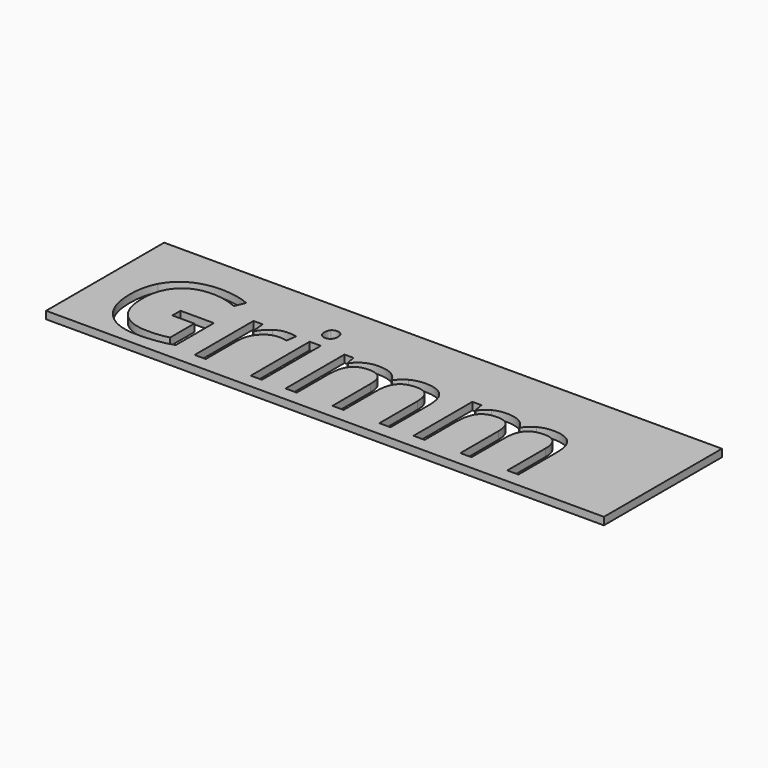
from build123d import *

# Parameters (mm, degrees)
F0_W     = 148.2064500451
F0_H     = 39.1995310783
F0_W_2   = 2.9635276284
F0_H_2   = 19.5569983185
F1_DEPTH = 2


with BuildPart() as f1:
    # F0 (on Top) → F1 (new body)
    with BuildSketch(Plane.XY):
        with Locations((1.0739602149, 4.8328191042)):
            Rectangle(F0_W, F0_H)
        with BuildLine():
            Line((-51.2538431366, -0.0504584148), (-51.2538431366, 2.6618260235))
            Line((-51.2538431366, 2.6618260235), (-42.3861005414, 2.6618260235))
            Line((-42.3861005414, 2.6618260235), (-42.3861005414, -10.0259550753))
            add(Edge.make_bspline(
                [(-42.3861005414, -10.0259550753), (-44.4588568595, -10.6883234855), (-46.6001340477, -11.0280727994)],
                knots=[0, 0, 0, 1, 1, 1], degree=2))
            add(Edge.make_bspline(
                [(-46.6001340477, -11.0280727994), (-48.7414112358, -11.3678221132), (-51.5621870517, -11.3678221132)],
                knots=[0, 0, 0, 1, 1, 1], degree=2))
            add(Edge.make_bspline(
                [(-51.5621870517, -11.3678221132), (-57.483532236, -11.3678221132), (-60.783954142, -7.8418523434)],
                knots=[0, 0, 0, 1, 1, 1], degree=2))
            add(Edge.make_bspline(
                [(-60.783954142, -7.8418523434), (-64.084376048, -4.3158825736), (-64.084376048, 2.0337180483)],
                knots=[0, 0, 0, 1, 1, 1], degree=2))
            add(Edge.make_bspline(
                [(-64.084376048, 2.0337180483), (-64.084376048, 6.1049997421), (-62.4512953125, 9.165598603)],
                knots=[0, 0, 0, 1, 1, 1], degree=2))
            add(Edge.make_bspline(
                [(-62.4512953125, 9.165598603), (-60.818214577, 12.226197464), (-57.7490506073, 13.8392929457)],
                knots=[0, 0, 0, 1, 1, 1], degree=2))
            add(Edge.make_bspline(
                [(-57.7490506073, 13.8392929457), (-54.6798866376, 15.4523884274), (-50.5629243639, 15.4523884274)],
                knots=[0, 0, 0, 1, 1, 1], degree=2))
            add(Edge.make_bspline(
                [(-50.5629243639, 15.4523884274), (-46.3831512926, 15.4523884274), (-42.780095544, 13.922088997)],
                knots=[0, 0, 0, 1, 1, 1], degree=2))
            Line((-42.780095544, 13.922088997), (-43.9563704794, 11.2440649937))
            add(Edge.make_bspline(
                [(-43.9563704794, 11.2440649937), (-47.4909053579, 12.7401039891), (-50.7570668289, 12.7401039891)],
                knots=[0, 0, 0, 1, 1, 1], degree=2))
            add(Edge.make_bspline(
                [(-50.7570668289, 12.7401039891), (-55.5192672954, 12.7401039891), (-58.1972912987, 9.905052992)],
                knots=[0, 0, 0, 1, 1, 1], degree=2))
            add(Edge.make_bspline(
                [(-58.1972912987, 9.905052992), (-60.875315302, 7.0700019949), (-60.875315302, 2.0337180483)],
                knots=[0, 0, 0, 1, 1, 1], degree=2))
            add(Edge.make_bspline(
                [(-60.875315302, 2.0337180483), (-60.875315302, -3.2480990158), (-58.2972175675, -5.9775136716)],
                knots=[0, 0, 0, 1, 1, 1], degree=2))
            add(Edge.make_bspline(
                [(-58.2972175675, -5.9775136716), (-55.719119833, -8.7069283274), (-50.7228063939, -8.7069283274)],
                knots=[0, 0, 0, 1, 1, 1], degree=2))
            add(Edge.make_bspline(
                [(-50.7228063939, -8.7069283274), (-48.0105219556, -8.7069283274), (-45.4238591123, -8.0788203522)],
                knots=[0, 0, 0, 1, 1, 1], degree=2))
            Line((-45.4238591123, -8.0788203522), (-45.4238591123, -0.0504584148))
            Line((-45.4238591123, -0.0504584148), (-51.2538431366, -0.0504584148))
        make_face(mode=Mode.SUBTRACT)
        with BuildLine():
            add(Edge.make_bspline(
                [(-31.0230562629, 7.8722671814), (-29.4870467599, 8.9086453404), (-27.6484034144, 8.9086453404)],
                knots=[0, 0, 0, 1, 1, 1], degree=2))
            add(Edge.make_bspline(
                [(-27.6484034144, 8.9086453404), (-26.346506884, 8.9086453404), (-25.3129837612, 8.6916625854)],
                knots=[0, 0, 0, 1, 1, 1], degree=2))
            Line((-25.3129837612, 8.6916625854), (-25.7241089813, 5.945117712))
            add(Edge.make_bspline(
                [(-25.7241089813, 5.945117712), (-26.9346443517, 6.2134911196), (-27.8653861694, 6.2134911196)],
                knots=[0, 0, 0, 1, 1, 1], degree=2))
            add(Edge.make_bspline(
                [(-27.8653861694, 6.2134911196), (-30.2407763302, 6.2134911196), (-31.9252477182, 4.2863416503)],
                knots=[0, 0, 0, 1, 1, 1], degree=2))
            add(Edge.make_bspline(
                [(-31.9252477182, 4.2863416503), (-33.6097191062, 2.3591921809), (-33.6097191062, -0.5129742874)],
                knots=[0, 0, 0, 1, 1, 1], degree=2))
            Line((-33.6097191062, -0.5129742874), (-33.6097191062, -11.0080875456))
            Line((-33.6097191062, -11.0080875456), (-36.5732467346, -11.0080875456))
            Line((-36.5732467346, -11.0080875456), (-36.5732467346, 8.5489107728))
            Line((-36.5732467346, 8.5489107728), (-34.1293357039, 8.5489107728))
            Line((-34.1293357039, 8.5489107728), (-33.7867313538, 4.9287248067))
            Line((-33.7867313538, 4.9287248067), (-33.6439795412, 4.9287248067))
            add(Edge.make_bspline(
                [(-33.6439795412, 4.9287248067), (-32.5590657659, 6.8358890223), (-31.0230562629, 7.8722671814)],
                knots=[0, 0, 0, 1, 1, 1], degree=2))
        make_face(mode=Mode.SUBTRACT)
        with Locations((-20.1710634733, -1.2295883864)):
            Rectangle(F0_W_2, F0_H_2, mode=Mode.SUBTRACT)
        with BuildLine():
            Line((15.4797741913, -11.0080875456), (12.5219566354, -11.0080875456))
            Line((12.5219566354, -11.0080875456), (12.5219566354, 1.7139539883))
            add(Edge.make_bspline(
                [(12.5219566354, 1.7139539883), (12.5219566354, 4.055083714), (11.5226939476, 5.2227935406)],
                knots=[0, 0, 0, 1, 1, 1], degree=2))
            add(Edge.make_bspline(
                [(11.5226939476, 5.2227935406), (10.5234312598, 6.3905033672), (8.4164145066, 6.3905033672)],
                knots=[0, 0, 0, 1, 1, 1], degree=2))
            add(Edge.make_bspline(
                [(8.4164145066, 6.3905033672), (5.6527394158, 6.3905033672), (4.3308576316, 4.8031032117)],
                knots=[0, 0, 0, 1, 1, 1], degree=2))
            add(Edge.make_bspline(
                [(4.3308576316, 4.8031032117), (3.0089758475, 3.2157030562), (3.0089758475, -0.0847188498)],
                knots=[0, 0, 0, 1, 1, 1], degree=2))
            Line((3.0089758475, -0.0847188498), (3.0089758475, -11.0080875456))
            Line((3.0089758475, -11.0080875456), (0.0454482191, -11.0080875456))
            Line((0.0454482191, -11.0080875456), (0.0454482191, 1.7139539883))
            add(Edge.make_bspline(
                [(0.0454482191, 1.7139539883), (0.0454482191, 4.055083714), (-0.9538144687, 5.2227935406)],
                knots=[0, 0, 0, 1, 1, 1], degree=2))
            add(Edge.make_bspline(
                [(-0.9538144687, 5.2227935406), (-1.9530771565, 6.3905033672), (-4.0772241272, 6.3905033672)],
                knots=[0, 0, 0, 1, 1, 1], degree=2))
            add(Edge.make_bspline(
                [(-4.0772241272, 6.3905033672), (-6.8580294355, 6.3905033672), (-8.1513608572, 4.7231621967)],
                knots=[0, 0, 0, 1, 1, 1], degree=2))
            add(Edge.make_bspline(
                [(-8.1513608572, 4.7231621967), (-9.4446922788, 3.0558210262), (-9.4446922788, -0.74708726)],
                knots=[0, 0, 0, 1, 1, 1], degree=2))
            Line((-9.4446922788, -0.74708726), (-9.4446922788, -11.0080875456))
            Line((-9.4446922788, -11.0080875456), (-12.4082199072, -11.0080875456))
            Line((-12.4082199072, -11.0080875456), (-12.4082199072, 8.5489107728))
            Line((-12.4082199072, 8.5489107728), (-9.9985693115, 8.5489107728))
            Line((-9.9985693115, 8.5489107728), (-9.5189232213, 5.8708867695))
            Line((-9.5189232213, 5.8708867695), (-9.3761714088, 5.8708867695))
            add(Edge.make_bspline(
                [(-9.3761714088, 5.8708867695), (-8.536790751, 7.298404895), (-7.0093463568, 8.1035251177)],
                knots=[0, 0, 0, 1, 1, 1], degree=2))
            add(Edge.make_bspline(
                [(-7.0093463568, 8.1035251177), (-5.4819019626, 8.9086453404), (-3.5918679645, 8.9086453404)],
                knots=[0, 0, 0, 1, 1, 1], degree=2))
            add(Edge.make_bspline(
                [(-3.5918679645, 8.9086453404), (0.9933202544, 8.9086453404), (2.4037081623, 5.5853831444)],
                knots=[0, 0, 0, 1, 1, 1], degree=2))
            Line((2.4037081623, 5.5853831444), (2.5464599748, 5.5853831444))
            add(Edge.make_bspline(
                [(2.5464599748, 5.5853831444), (3.4201010676, 7.1213926474), (5.0788771294, 8.0150189939)],
                knots=[0, 0, 0, 1, 1, 1], degree=2))
            add(Edge.make_bspline(
                [(5.0788771294, 8.0150189939), (6.7376531911, 8.9086453404), (8.8618001618, 8.9086453404)],
                knots=[0, 0, 0, 1, 1, 1], degree=2))
            add(Edge.make_bspline(
                [(8.8618001618, 8.9086453404), (12.1793522853, 8.9086453404), (13.8295632383, 7.2041886987)],
                knots=[0, 0, 0, 1, 1, 1], degree=2))
            add(Edge.make_bspline(
                [(13.8295632383, 7.2041886987), (15.4797741913, 5.4997320569), (15.4797741913, 1.7482144233)],
                knots=[0, 0, 0, 1, 1, 1], degree=2))
            Line((15.4797741913, 1.7482144233), (15.4797741913, -11.0080875456))
        make_face(mode=Mode.SUBTRACT)
        with BuildLine():
            Line((49.4718357942, -11.0080875456), (46.5140182383, -11.0080875456))
            Line((46.5140182383, -11.0080875456), (46.5140182383, 1.7139539883))
            add(Edge.make_bspline(
                [(46.5140182383, 1.7139539883), (46.5140182383, 4.055083714), (45.5147555505, 5.2227935406)],
                knots=[0, 0, 0, 1, 1, 1], degree=2))
            add(Edge.make_bspline(
                [(45.5147555505, 5.2227935406), (44.5154928627, 6.3905033672), (42.4084761095, 6.3905033672)],
                knots=[0, 0, 0, 1, 1, 1], degree=2))
            add(Edge.make_bspline(
                [(42.4084761095, 6.3905033672), (39.6448010187, 6.3905033672), (38.3229192345, 4.8031032117)],
                knots=[0, 0, 0, 1, 1, 1], degree=2))
            add(Edge.make_bspline(
                [(38.3229192345, 4.8031032117), (37.0010374504, 3.2157030562), (37.0010374504, -0.0847188498)],
                knots=[0, 0, 0, 1, 1, 1], degree=2))
            Line((37.0010374504, -0.0847188498), (37.0010374504, -11.0080875456))
            Line((37.0010374504, -11.0080875456), (34.037509822, -11.0080875456))
            Line((34.037509822, -11.0080875456), (34.037509822, 1.7139539883))
            add(Edge.make_bspline(
                [(34.037509822, 1.7139539883), (34.037509822, 4.055083714), (33.0382471341, 5.2227935406)],
                knots=[0, 0, 0, 1, 1, 1], degree=2))
            add(Edge.make_bspline(
                [(33.0382471341, 5.2227935406), (32.0389844463, 6.3905033672), (29.9148374757, 6.3905033672)],
                knots=[0, 0, 0, 1, 1, 1], degree=2))
            add(Edge.make_bspline(
                [(29.9148374757, 6.3905033672), (27.1340321673, 6.3905033672), (25.8407007457, 4.7231621967)],
                knots=[0, 0, 0, 1, 1, 1], degree=2))
            add(Edge.make_bspline(
                [(25.8407007457, 4.7231621967), (24.5473693241, 3.0558210262), (24.5473693241, -0.74708726)],
                knots=[0, 0, 0, 1, 1, 1], degree=2))
            Line((24.5473693241, -0.74708726), (24.5473693241, -11.0080875456))
            Line((24.5473693241, -11.0080875456), (21.5838416957, -11.0080875456))
            Line((21.5838416957, -11.0080875456), (21.5838416957, 8.5489107728))
            Line((21.5838416957, 8.5489107728), (23.9934922914, 8.5489107728))
            Line((23.9934922914, 8.5489107728), (24.4731383815, 5.8708867695))
            Line((24.4731383815, 5.8708867695), (24.6158901941, 5.8708867695))
            add(Edge.make_bspline(
                [(24.6158901941, 5.8708867695), (25.4552708518, 7.298404895), (26.982715246, 8.1035251177)],
                knots=[0, 0, 0, 1, 1, 1], degree=2))
            add(Edge.make_bspline(
                [(26.982715246, 8.1035251177), (28.5101596403, 8.9086453404), (30.4001936383, 8.9086453404)],
                knots=[0, 0, 0, 1, 1, 1], degree=2))
            add(Edge.make_bspline(
                [(30.4001936383, 8.9086453404), (34.9853818572, 8.9086453404), (36.3957697652, 5.5853831444)],
                knots=[0, 0, 0, 1, 1, 1], degree=2))
            Line((36.3957697652, 5.5853831444), (36.5385215777, 5.5853831444))
            add(Edge.make_bspline(
                [(36.5385215777, 5.5853831444), (37.4121626705, 7.1213926474), (39.0709387322, 8.0150189939)],
                knots=[0, 0, 0, 1, 1, 1], degree=2))
            add(Edge.make_bspline(
                [(39.0709387322, 8.0150189939), (40.729714794, 8.9086453404), (42.8538617646, 8.9086453404)],
                knots=[0, 0, 0, 1, 1, 1], degree=2))
            add(Edge.make_bspline(
                [(42.8538617646, 8.9086453404), (46.1714138882, 8.9086453404), (47.8216248412, 7.2041886987)],
                knots=[0, 0, 0, 1, 1, 1], degree=2))
            add(Edge.make_bspline(
                [(47.8216248412, 7.2041886987), (49.4718357942, 5.4997320569), (49.4718357942, 1.7482144233)],
                knots=[0, 0, 0, 1, 1, 1], degree=2))
            Line((49.4718357942, 1.7482144233), (49.4718357942, -11.0080875456))
        make_face(mode=Mode.SUBTRACT)
        with BuildLine():
            add(Edge.make_bspline(
                [(-21.4044391337, 12.3575291315), (-21.9040704776, 12.8485953667), (-21.9040704776, 13.8478580545)],
                knots=[0, 0, 0, 1, 1, 1], degree=2))
            add(Edge.make_bspline(
                [(-21.9040704776, 13.8478580545), (-21.9040704776, 14.8642509598), (-21.4044391337, 15.3381869774)],
                knots=[0, 0, 0, 1, 1, 1], degree=2))
            add(Edge.make_bspline(
                [(-21.4044391337, 15.3381869774), (-20.9048077898, 15.8121229951), (-20.1510782196, 15.8121229951)],
                knots=[0, 0, 0, 1, 1, 1], degree=2))
            add(Edge.make_bspline(
                [(-20.1510782196, 15.8121229951), (-19.4373191569, 15.8121229951), (-18.9205575955, 15.3296218687)],
                knots=[0, 0, 0, 1, 1, 1], degree=2))
            add(Edge.make_bspline(
                [(-18.9205575955, 15.3296218687), (-18.4037960341, 14.8471207423), (-18.4037960341, 13.8478580545)],
                knots=[0, 0, 0, 1, 1, 1], degree=2))
            add(Edge.make_bspline(
                [(-18.4037960341, 13.8478580545), (-18.4037960341, 12.8485953667), (-18.9205575955, 12.3575291315)],
                knots=[0, 0, 0, 1, 1, 1], degree=2))
            add(Edge.make_bspline(
                [(-18.9205575955, 12.3575291315), (-19.4373191569, 11.8664628964), (-20.1510782196, 11.8664628964)],
                knots=[0, 0, 0, 1, 1, 1], degree=2))
            add(Edge.make_bspline(
                [(-20.1510782196, 11.8664628964), (-20.9048077898, 11.8664628964), (-21.4044391337, 12.3575291315)],
                knots=[0, 0, 0, 1, 1, 1], degree=2))
        make_face(mode=Mode.SUBTRACT)
    extrude(amount=F1_DEPTH)


solid = f1.part
